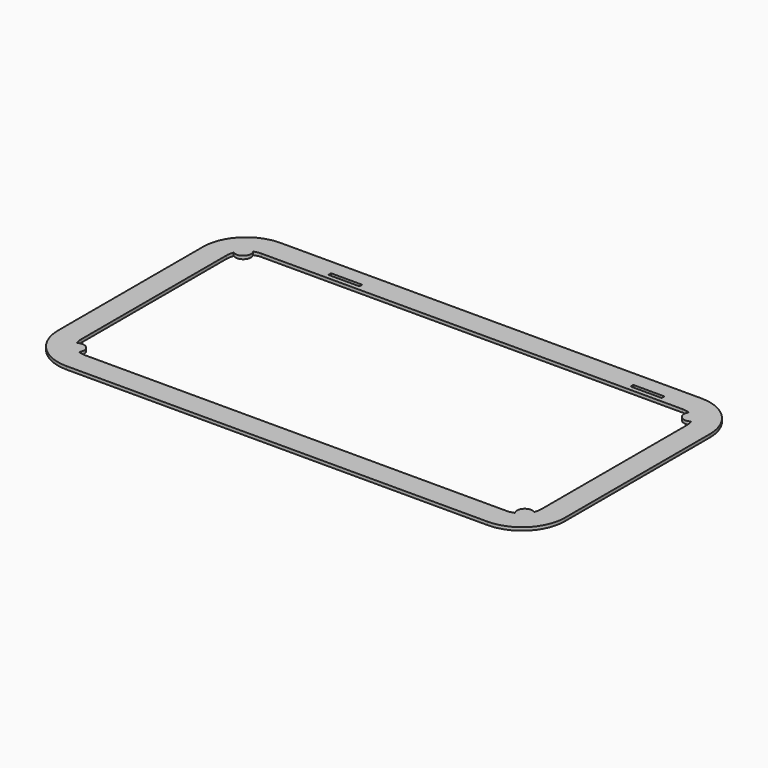
from build123d import *

# Parameters (mm, degrees)
F1_DEPTH = 2.54
F4_DEPTH = 2.54
F5_W     = 25.4
F5_H     = 2.794
F6_DEPTH = 25.4


with BuildPart() as f1:
    # F0 (on Top) → F1 (new body)
    with BuildSketch(Plane.XY):
        with BuildLine():
            Line((206.375, -73.81875), (206.375, 73.81875))
            ThreePointArc((206.375, 73.81875), (196.145704, 98.514454), (171.45, 108.74375))
            Line((171.45, 108.74375), (-171.45, 108.74375))
            ThreePointArc((-171.45, 108.74375), (-196.145704, 98.514454), (-206.375, 73.81875))
            Line((-206.375, 73.81875), (-206.375, -73.81875))
            ThreePointArc((-206.375, -73.81875), (-196.145704, -98.514454), (-171.45, -108.74375))
            Line((-171.45, -108.74375), (171.45, -108.74375))
            ThreePointArc((171.45, -108.74375), (196.145704, -98.514454), (206.375, -73.81875))
        make_face()
        with BuildLine():
            ThreePointArc((187.325, -73.81875), (182.67532, -85.04407), (171.45, -89.69375))
            Line((171.45, -89.69375), (-171.45, -89.69375))
            ThreePointArc((-171.45, -89.69375), (-182.67532, -85.04407), (-187.325, -73.81875))
            Line((-187.325, -73.81875), (-187.325, 73.81875))
            ThreePointArc((-187.325, 73.81875), (-182.67532, 85.04407), (-171.45, 89.69375))
            Line((-171.45, 89.69375), (171.45, 89.69375))
            ThreePointArc((171.45, 89.69375), (182.67532, 85.04407), (187.325, 73.81875))
            Line((187.325, 73.81875), (187.325, -73.81875))
        make_face(mode=Mode.SUBTRACT)
    extrude(amount=F1_DEPTH)

    # F3 (on face) → F4 (join, through all)
    with BuildSketch(Plane.XY.offset(2.54)):
        with BuildLine():
            ThreePointArc((-186.176704, 79.746635), (-178.185192, 80.553942), (-177.377885, 88.545454))
            ThreePointArc((-177.377885, 88.545454), (-182.67532, 85.04407), (-186.176704, 79.746635))
        make_face()
        with BuildLine():
            ThreePointArc((186.176704, 79.746635), (182.67532, 85.04407), (177.377885, 88.545454))
            ThreePointArc((177.377885, 88.545454), (178.185192, 80.553942), (186.176704, 79.746635))
        make_face()
        with BuildLine():
            ThreePointArc((177.377885, -88.545454), (182.67532, -85.04407), (186.176704, -79.746635))
            ThreePointArc((186.176704, -79.746635), (178.185192, -80.553942), (177.377885, -88.545454))
        make_face()
        with BuildLine():
            ThreePointArc((-177.377885, -88.545454), (-178.185192, -80.553942), (-186.176704, -79.746635))
            ThreePointArc((-186.176704, -79.746635), (-182.67532, -85.04407), (-177.377885, -88.545454))
        make_face()
    extrude(amount=-F4_DEPTH)

    # F5 (on face) → F6 (cut)
    with BuildSketch(Plane.XY.offset(2.54)):
        with Locations((-107.315, 94.77375)):
            Rectangle(F5_W, F5_H)
        with Locations((138.7475, 94.77375)):
            Rectangle(F5_W, F5_H)
    extrude(amount=-F6_DEPTH, mode=Mode.SUBTRACT)


solid = f1.part
